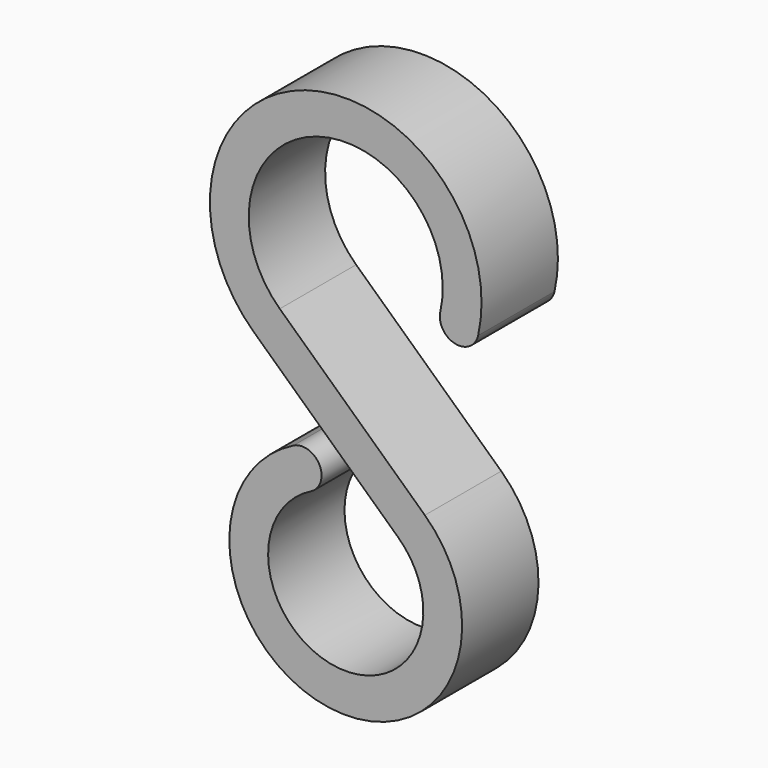
from build123d import *

# Parameters (mm, degrees)
F1_DEPTH = 12.5


with BuildPart() as f1:
    # F0 (on Front) → F1 (new body)
    with BuildSketch(Plane.XZ):
        with BuildLine():
            ThreePointArc((-8.63434, -9.313333), (-3.748413, 12.134224), (12.382753, -2.820891))
            ThreePointArc((12.382753, -2.820891), (14.295126, -5.86162), (17.335854, -3.949247))
            ThreePointArc((17.335854, -3.949247), (-5.247779, 16.987914), (-12.088076, -13.038667))
            Line((-12.088076, -13.038667), (6.907472, -30.649333))
            ThreePointArc((6.907472, -30.649333), (-1.427534, -48.159212), (-4.561795, -29.021695))
            ThreePointArc((-4.561795, -29.021695), (-3.432667, -25.61167), (-6.842692, -24.482542))
            ThreePointArc((-6.842692, -24.482542), (-2.1413, -53.188818), (10.361208, -26.924))
            Line((10.361208, -26.924), (-8.63434, -9.313333))
        make_face()
    extrude(amount=F1_DEPTH)


solid = f1.part
